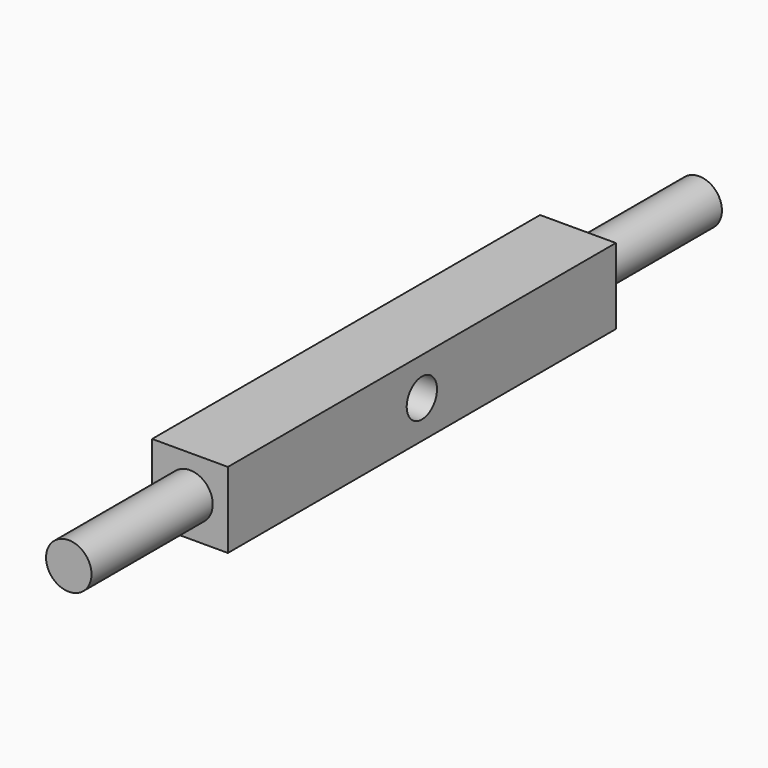
from build123d import *

# Parameters (mm, degrees)
F0_W     = 64
F0_H     = 10
F0_R     = 2.5
F1_DEPTH = 5
F3_START = 9
F2_R     = 3
F3_DEPTH = 43
F4_START = -10
F4_DEPTH = 42


with BuildPart() as f1:
    # F0 (on Right) → F1 (new body, symmetric)
    with BuildSketch(Plane.YZ):
        Rectangle(F0_W, F0_H)
        Circle(F0_R, mode=Mode.SUBTRACT)
    extrude(amount=F1_DEPTH, both=True)

    # F2 (on Front) → F3 (join)
    with BuildSketch(Plane.XZ.offset(F3_START)):
        Circle(F2_R)
    extrude(amount=F3_DEPTH)

    # F2 (on Front) → F4 (join)
    with BuildSketch(Plane.XZ.offset(F4_START)):
        Circle(F2_R)
    extrude(amount=-F4_DEPTH)


solid = f1.part
